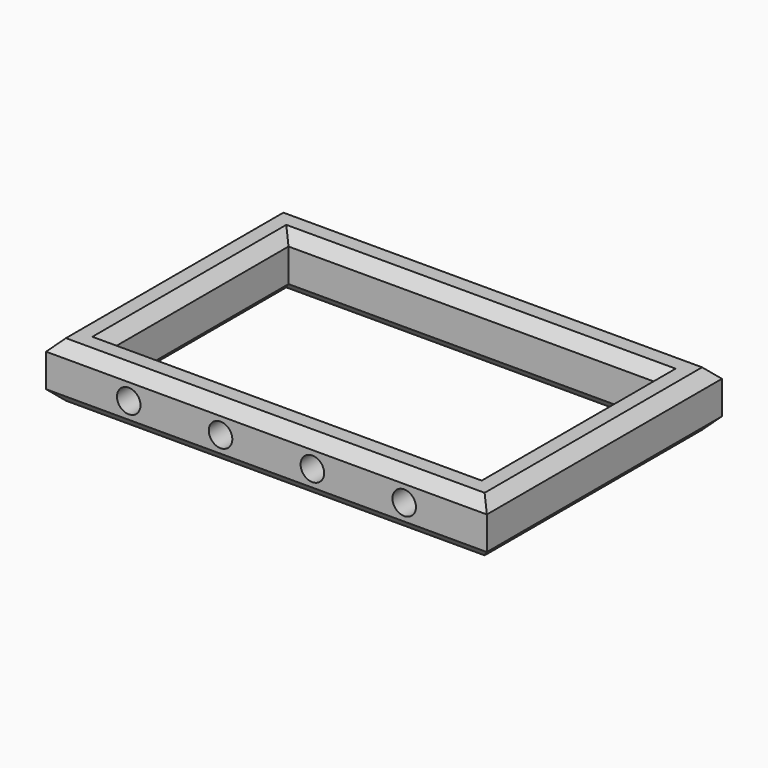
from build123d import *

# Parameters (mm, degrees)
F0_W     = 120
F0_H     = 80
F0_W_2   = 100
F0_H_2   = 60
F1_DEPTH = 15
F2_R     = 3.2
F3_DEPTH = 10.001
F4_SIZE  = 3


with BuildPart() as f1:
    # F0 (on Top) → F1 (new body)
    with BuildSketch(Plane.XY):
        with Locations((-60, 40)):
            Rectangle(F0_W, F0_H)
        with Locations((-60, 40)):
            Rectangle(F0_W_2, F0_H_2, mode=Mode.SUBTRACT)
    extrude(amount=F1_DEPTH)

    # F2 (on face) → F3 (cut, through all)
    with BuildSketch(Plane(origin=(0, 10, 0), x_dir=(-1, 0, 0), z_dir=(0, 1, 0))):
        with Locations((72.5, 7.5)):
            Circle(F2_R)
        with Locations((47.5, 7.5)):
            Circle(F2_R)
        with Locations((97.5, 7.5)):
            Circle(F2_R)
        with Locations((22.5, 7.5)):
            Circle(F2_R)
    extrude(amount=-F3_DEPTH, mode=Mode.SUBTRACT)

    # F4
    f4_edges = [f1.edges().sort_by_distance(p)[0] for p in [
        (-60, 0, 15),
        (0, 40, 15),
        (-60, 80, 15),
        (-120, 40, 15),
        (-10, 40, 15),
        (-60, 10, 15),
        (-110, 40, 15),
        (-60, 70, 15),
        (-60, 0, 0),
        (0, 40, 0),
        (-60, 80, 0),
        (-120, 40, 0),
        (-10, 40, 0),
        (-60, 10, 0),
        (-110, 40, 0),
        (-60, 70, 0),
    ]]
    chamfer(f4_edges, length=F4_SIZE)


solid = f1.part
